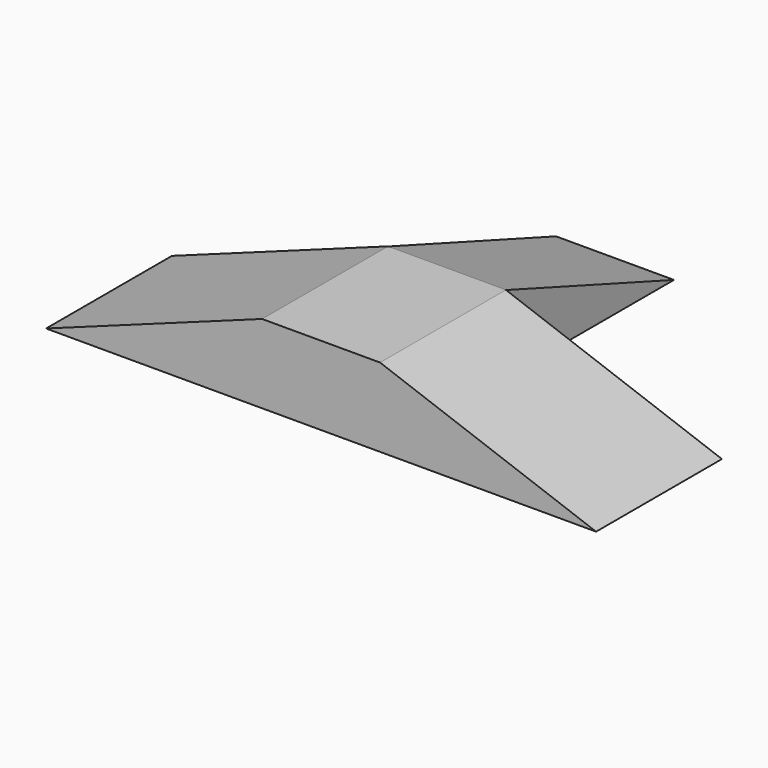
from build123d import *

# Parameters (mm, degrees)
F0_W     = 76.2
F0_H     = 50.8
F1_DEPTH = 101.6
F3_DEPTH = 38.1


with BuildPart() as f1:
    # F0 (on Front) → F1 (new body)
    with BuildSketch(Plane.XZ):
        Rectangle(F0_W, F0_H)
        Polygon((-177.671853, -25.4), (-38.1, -25.4), (-38.1, 25.4), align=None)
        Polygon((38.1, 25.4), (38.1, -25.4), (177.671853, -25.4), align=None)
    extrude(amount=F1_DEPTH)

    # F2 (on Right) → F3 (join, symmetric)
    with BuildSketch(Plane.YZ):
        Polygon((0, 25.324265), (0, 0), (0, -24.077533), (135.730323, -24.077533), align=None)
    extrude(amount=F3_DEPTH, both=True)


solid = f1.part
